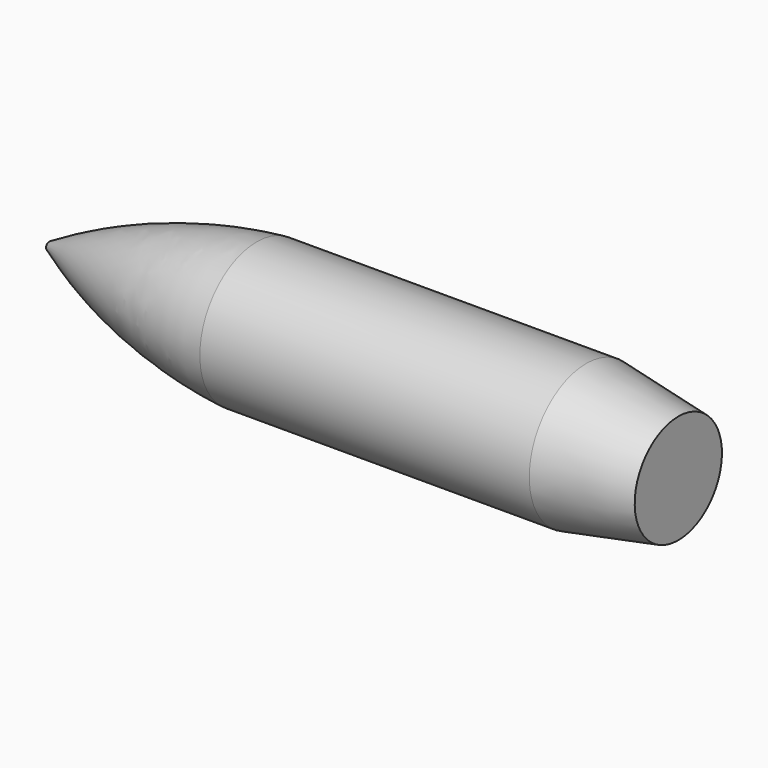
from build123d import *


with BuildPart() as f1:
    # F0 (on Front) → F1 (revolve)
    with BuildSketch(Plane.XZ):
        with BuildLine():
            Line((-27.145849, 0), (0, 0))
            Line((0, 0), (0, 2.3749))
            Line((0, 2.3749), (-4.0132, 3.0988))
            Line((-4.0132, 3.0988), (-18.3642, 3.0988))
            ThreePointArc((-18.3642, 3.0988), (-23.045768, 2.127078), (-27.407248, 0.16779))
            ThreePointArc((-27.407248, 0.16779), (-27.230709, 0.155309), (-27.145849, 0))
        make_face()
    revolve(axis=Axis((-13.7287, 0, 0), (-1, 0, 0)))


solid = f1.part
